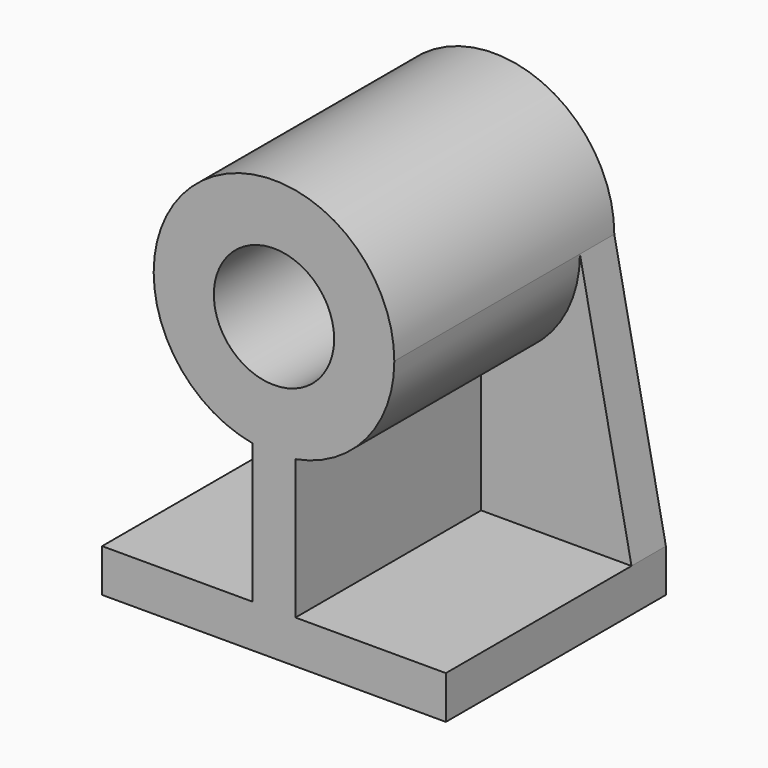
from build123d import *

# Parameters (mm, degrees)
F0_R     = 14
F1_DEPTH = 64
F2_DEPTH = 10


with BuildPart() as f1:
    # F0 (on Front) → F1 (new body)
    with BuildSketch(Plane.XZ):
        with BuildLine():
            Line((0, 10), (0, 0))
            Line((0, 0), (80, 0))
            Line((80, 0), (80, 10))
            Line((80, 10), (45, 10))
            Line((45, 10), (45, 42.450045))
            ThreePointArc((45, 42.450045), (61.494185, 52.055642), (68, 70))
            ThreePointArc((68, 70), (40, 98), (12, 70))
            ThreePointArc((12, 70), (18.505815, 52.055642), (35, 42.450045))
            Line((35, 42.450045), (35, 10))
            Line((35, 10), (0, 10))
        make_face()
        with Locations((40, 70)):
            Circle(F0_R, mode=Mode.SUBTRACT)
    extrude(amount=F1_DEPTH)

    # F0 (on Front) → F2 (join)
    with BuildSketch(Plane.XZ):
        with BuildLine():
            Line((7.994609, 49.973044), (0, 10))
            Line((0, 10), (35, 10))
            Line((35, 10), (35, 42.450045))
            ThreePointArc((35, 42.450045), (18.505815, 52.055642), (12, 70))
            Line((12, 70), (7.994609, 49.973044))
        make_face()
        with BuildLine():
            Line((45, 10), (80, 10))
            Line((80, 10), (68, 70))
            ThreePointArc((68, 70), (61.494185, 52.055642), (45, 42.450045))
            Line((45, 42.450045), (45, 10))
        make_face()
    extrude(amount=F2_DEPTH)


solid = f1.part
